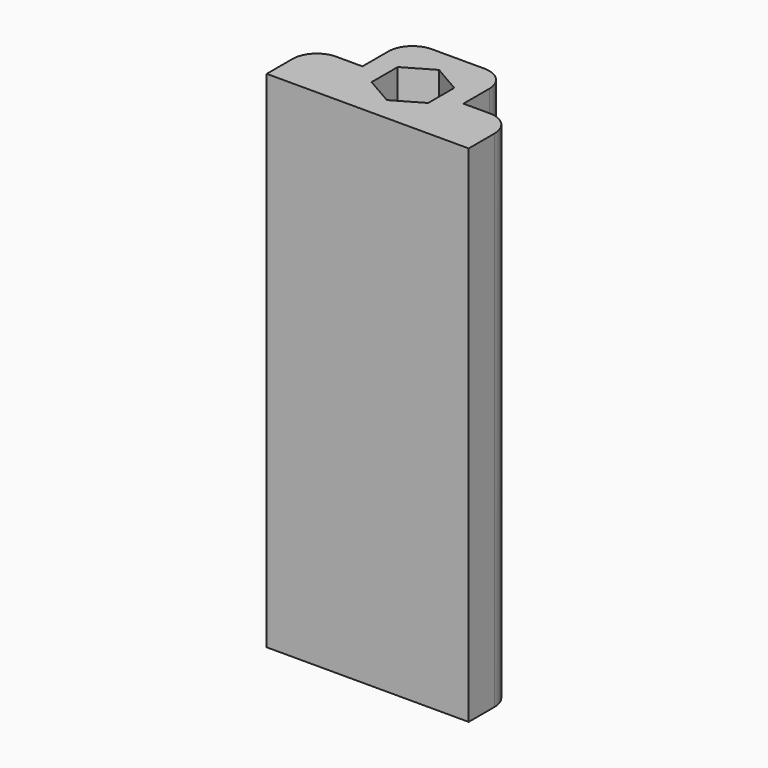
from build123d import *

# Parameters (mm, degrees)
F1_DEPTH = 25
F2_R     = 1.2


with BuildPart() as f1:
    # F0 (on Top) → F1 (new body)
    with BuildSketch(Plane.XY):
        Polygon((-5, 0), (0, 0), (5, 0), (5, 2.8), (2.5, 2.8), (2.5, 5.6), (-2.5, 5.6), (-2.5, 2.8), (-5, 2.8), align=None)
        Polygon((0, 4.417671), (1.4, 3.60938), (1.4, 1.9928), (0, 1.184509), (-1.4, 1.9928), (-1.4, 3.60938), align=None, mode=Mode.SUBTRACT)
    extrude(amount=F1_DEPTH)

    # F2
    f2_edges = [f1.edges().sort_by_distance(p)[0] for p in [
        (-2.5, 5.6, 12.5),
        (2.5, 5.6, 12.5),
        (5, 2.8, 12.5),
        (-5, 2.8, 12.5),
    ]]
    fillet(f2_edges, radius=F2_R)


solid = f1.part
